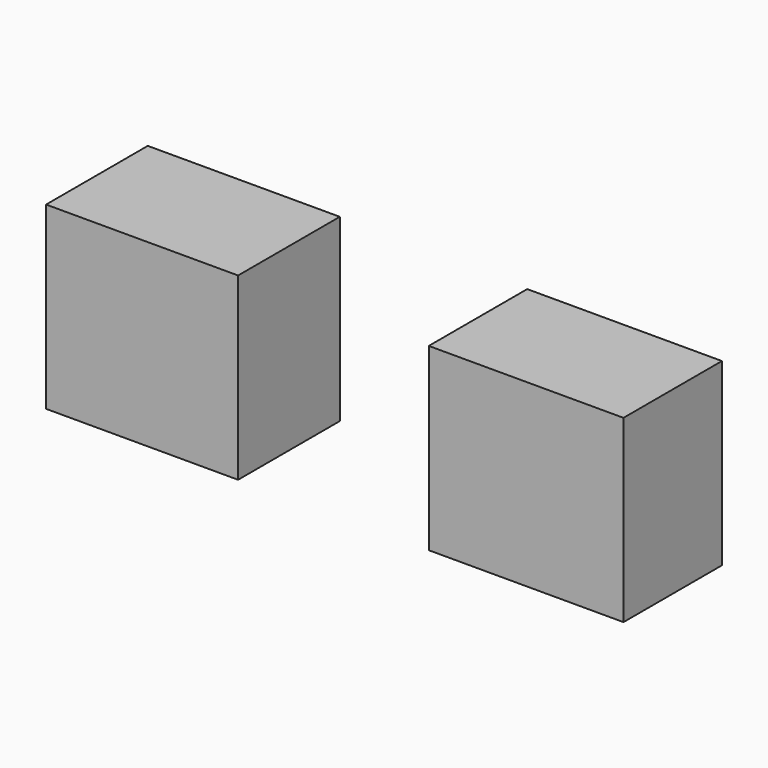
from build123d import *

# Parameters (mm, degrees)
F0_W     = 27.497472
F0_H     = 17.376874
F0_W_2   = 27.115561
F0_H_2   = 17.949738
F1_DEPTH = 25.4


with BuildPart() as f1:
    # F0 (on Top) → F1 (new body)
    with BuildSketch(Plane.XY):
        with Locations((9.929643, 47.452232)):
            Rectangle(F0_W, F0_H)
        with Locations((-44.30148, 47.738664)):
            Rectangle(F0_W_2, F0_H_2)
    extrude(amount=F1_DEPTH)


solid = f1.part
